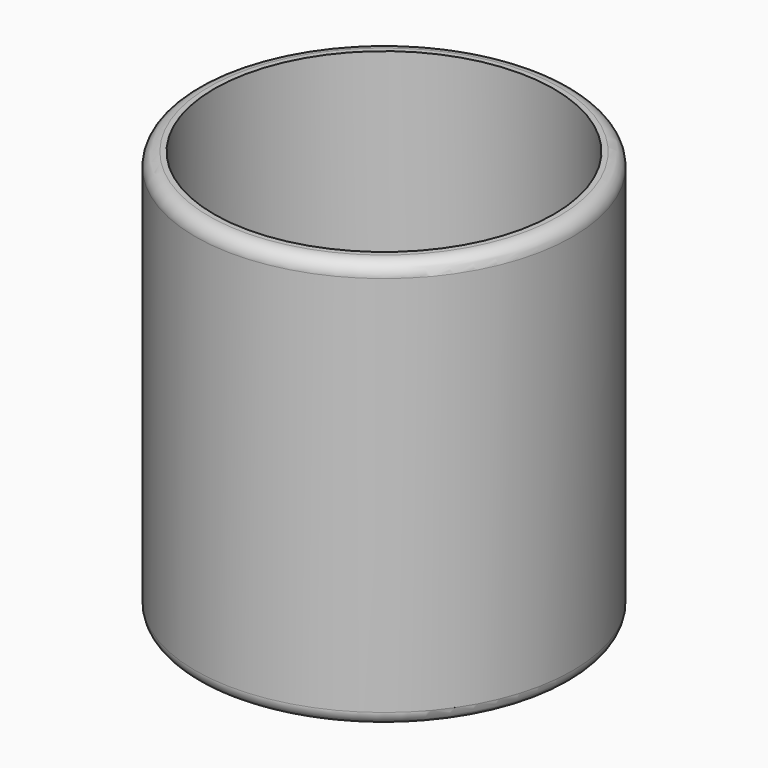
from build123d import *

# Parameters (mm, degrees)
F0_R     = 41.5
F1_DEPTH = 90
F2_R     = 37.351414
F3_DEPTH = 80
F4_R     = 3


with BuildPart() as f1:
    # F0 (on Top) → F1 (new body)
    with BuildSketch(Plane.XY):
        Circle(F0_R)
    extrude(amount=-F1_DEPTH)

    # F2 (on face) → F3 (cut)
    with BuildSketch(Plane.XY):
        Circle(F2_R)
    extrude(amount=-F3_DEPTH, mode=Mode.SUBTRACT)

    # F4
    f4_edges = [f1.edges().sort_by_distance(p)[0] for p in [
        (41.5, 0, -45),
        (-41.5, 0, 0),
        (-41.5, 0, -90),
    ]]
    fillet(f4_edges, radius=F4_R)


solid = f1.part
